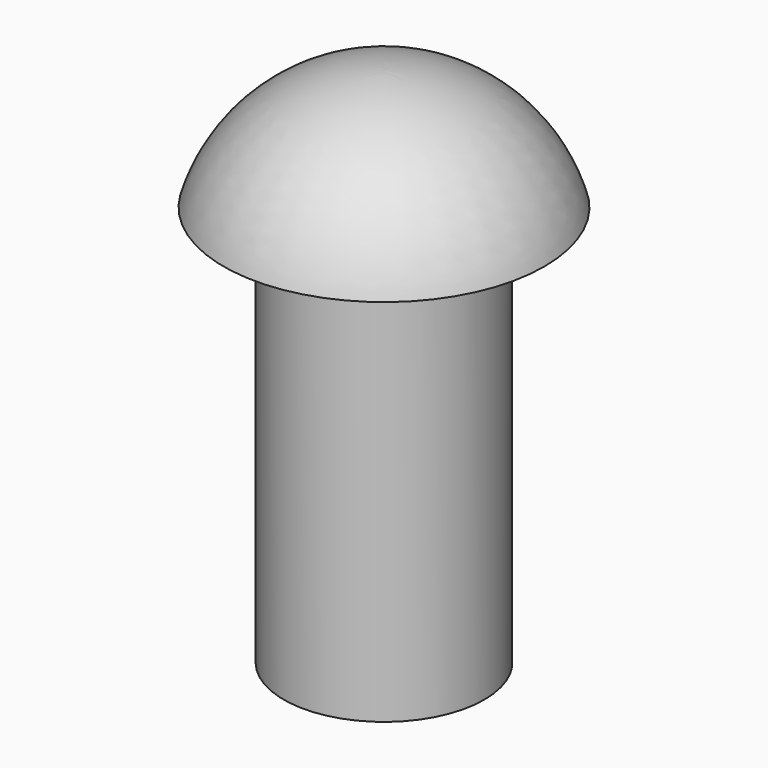
from build123d import *

# Parameters (mm, degrees)
F0_W = 3.175
F0_H = 12.6932086423


with BuildPart() as f1:
    # F0 (on Front) → F1 (revolve)
    with BuildSketch(Plane.XZ):
        with Locations((1.5875, 6.3466043212)):
            Rectangle(F0_W, F0_H)
        with BuildLine():
            Line((0, 16.51), (0, 12.6932086423))
            Line((0, 12.6932086423), (3.175, 12.6932086423))
            Line((3.175, 12.6932086423), (5.08, 12.6932086423))
            ThreePointArc((5.08, 12.6932086423), (3.177919197, 15.4506498196), (0, 16.51))
        make_face()
    revolve(axis=Axis((0, 0, 8.255), (0, 0, -1)))


solid = f1.part
